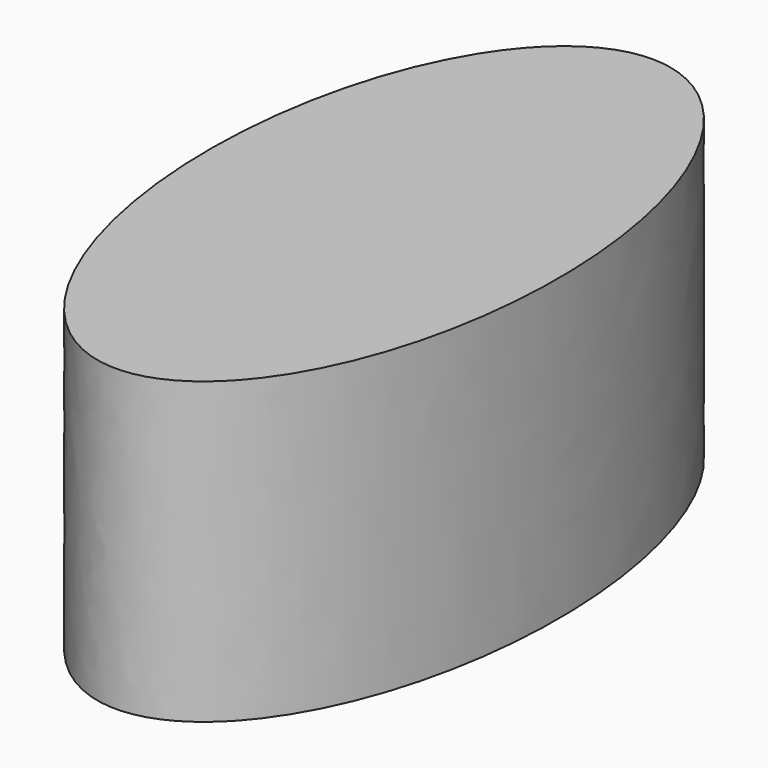
from build123d import *

# Parameters (mm, degrees)
F1_DEPTH = 68.7


with BuildPart() as f1:
    # F0 (on Top) → F1 (new body)
    with BuildSketch(Plane.XY):
        with BuildLine():
            add(Edge.make_bspline(
                [(0, 76.830582), (-69.282032, 76.830582), (-34.641016, -38.415291), (0, -153.661163), (34.641016, -38.415291), (69.282032, 76.830582), (0, 76.830582)],
                knots=[0, 0, 0, 2.094395, 2.094395, 4.18879, 4.18879, 6.283185, 6.283185, 6.283185], degree=2, weights=[1, 0.5, 1, 0.5, 1, 0.5, 1]))
        make_face()
    extrude(amount=-F1_DEPTH)


solid = f1.part
